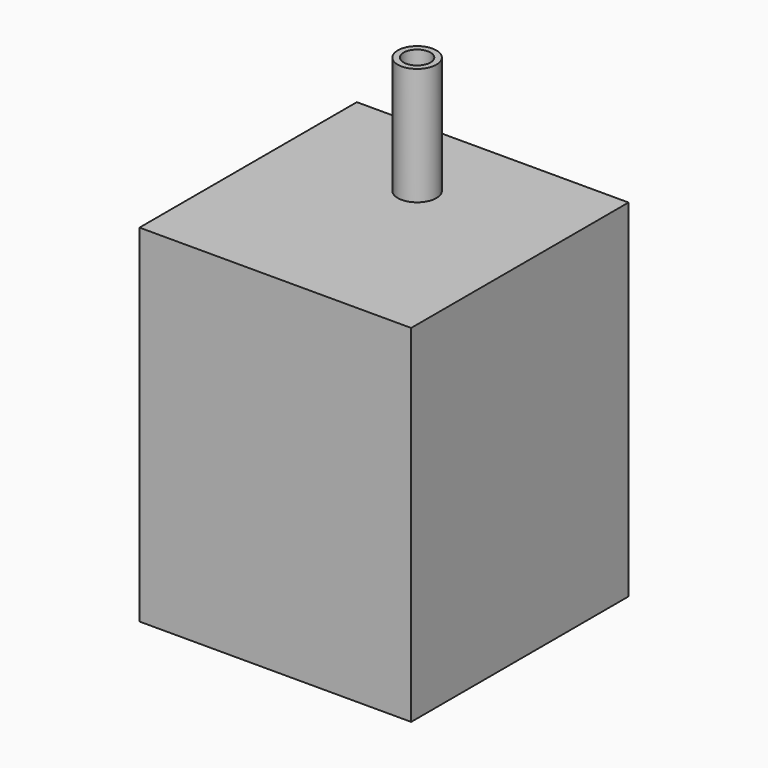
from build123d import *

# Parameters (mm, degrees)
F0_W     = 117.5
F0_H     = 117.5
F1_DEPTH = 150
F2_R     = 8.3617608376
F3_DEPTH = 50.8
F4_T     = -2.54


with BuildPart() as f1:
    # F0 (on Top) → F1 (new body)
    with BuildSketch(Plane.XY):
        with Locations((2.2854433954, -9.9431091547)):
            Rectangle(F0_W, F0_H)
    extrude(amount=F1_DEPTH)

    # F2 (on face) → F3 (join)
    with BuildSketch(Plane.XY.offset(150)):
        with Locations((0, 10.8060371131)):
            Circle(F2_R)
    extrude(amount=F3_DEPTH)

    # F4
    f4_openings = [f1.faces().sort_by_distance(p)[0] for p in [
        (0, 10.806037, 200.8),
    ]]
    offset(amount=F4_T, openings=f4_openings, kind=Kind.INTERSECTION)


solid = f1.part
